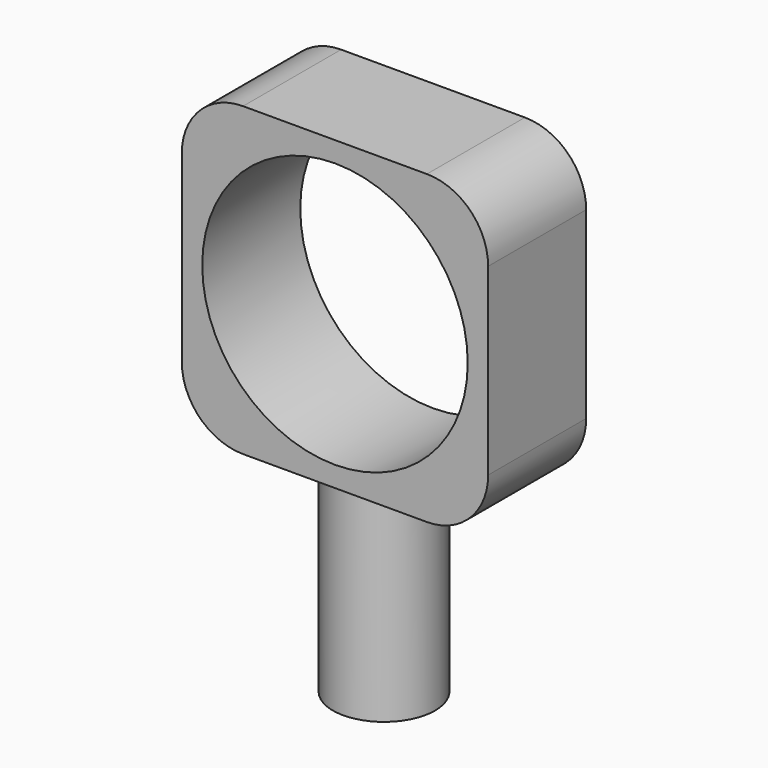
from build123d import *

# Parameters (mm, degrees)
SKETCH_R        = 2.5
PAD_DEPTH       = 20
SKETCH001_R     = 1.6
POCKET_DEPTH    = 10
POCKET_FACE3_R  = 2.5
POCKET001_DEPTH = 10
SKETCH002_W     = 15
SKETCH002_H     = 15
PAD001_DEPTH    = 3
PAD002_DEPTH    = 3
SKETCH003_R     = 6.5
POCKET002_DEPTH = 6.001
FILLET_R        = 3


with BuildPart() as part:
    # Sketch → Pad (new body)
    with BuildSketch(Plane.XY):
        Circle(SKETCH_R)
    extrude(amount=PAD_DEPTH)

    # Sketch001 (on Face2 of Pad) → Pocket (cut)
    with BuildSketch(Plane(origin=(0, 0, 0), x_dir=(1, 0, 0), z_dir=(0, 0, -1))):
        Circle(SKETCH001_R)
    extrude(amount=-POCKET_DEPTH, mode=Mode.SUBTRACT)

    # Pocket Face3 → Pocket001 (cut)
    with BuildSketch(Plane(origin=(0, 0, 20), x_dir=(0, 1, 0), z_dir=(0, 0, 1))):
        Circle(POCKET_FACE3_R)
    extrude(amount=-POCKET001_DEPTH, mode=Mode.SUBTRACT)

    # Sketch002 → Pad001 (join)
    with BuildSketch(Plane.XZ):
        with Locations((0, 17.5)):
            Rectangle(SKETCH002_W, SKETCH002_H)
    extrude(amount=PAD001_DEPTH)

    # Pad001 Face5 → Pad002 (add)
    with BuildSketch(Plane(origin=(0, 0, 17.5), x_dir=(1, 0, 0), z_dir=(0, 1, 0))):
        Polygon((7.5, -7.5), (7.5, 7.5), (2.5, 7.5), (1.6, 7.5), (-1.6, 7.5), (-2.5, 7.5), (-7.5, 7.5), (-7.5, -7.5), align=None)
    extrude(amount=PAD002_DEPTH)

    # Sketch003 (on Face3 of Pad002) → Pocket002 (cut, through all)
    with BuildSketch(Plane(origin=(0, 3, 0), x_dir=(-1, 0, 0), z_dir=(0, 1, 0))):
        with Locations((0, 17.5)):
            Circle(SKETCH003_R)
    extrude(amount=-POCKET002_DEPTH, mode=Mode.SUBTRACT)

    # Fillet
    fillet_edges = [part.edges().sort_by_distance(p)[0] for p in [
        (-7.5, 0, 25),
        (-7.5, 0, 10),
        (7.5, 0, 25),
        (7.5, 0, 10),
    ]]
    fillet(fillet_edges, radius=FILLET_R)


solid = part.part
